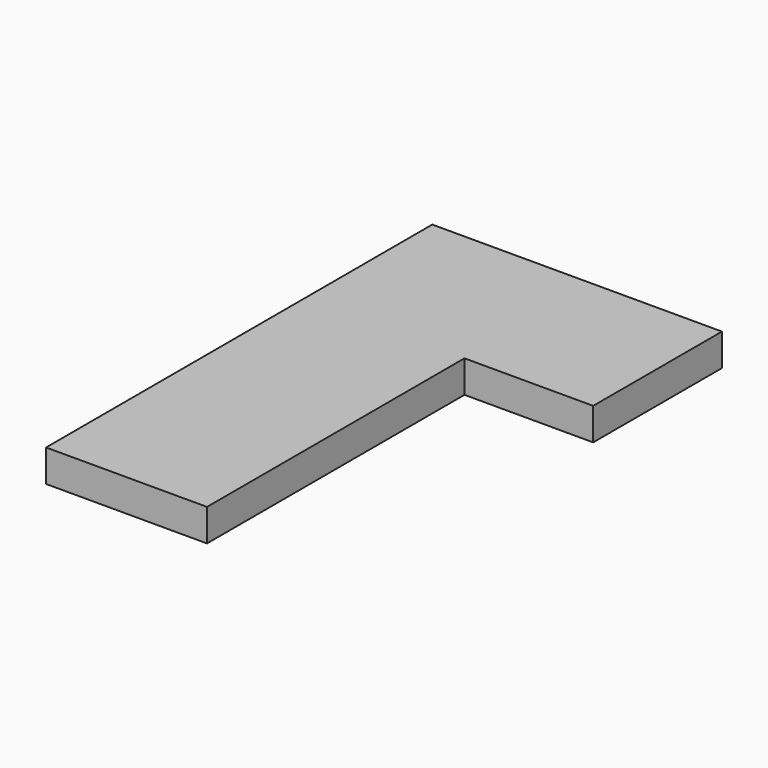
from build123d import *

# Parameters (mm, degrees)
PAD_DEPTH = 5


with BuildPart() as part:
    # Sketch → Pad (new body)
    with BuildSketch(Plane.XY):
        Polygon((0, 0), (25, 0), (25, 50), (45, 50), (45, 75), (0, 75), align=None)
    extrude(amount=PAD_DEPTH)


solid = part.part
